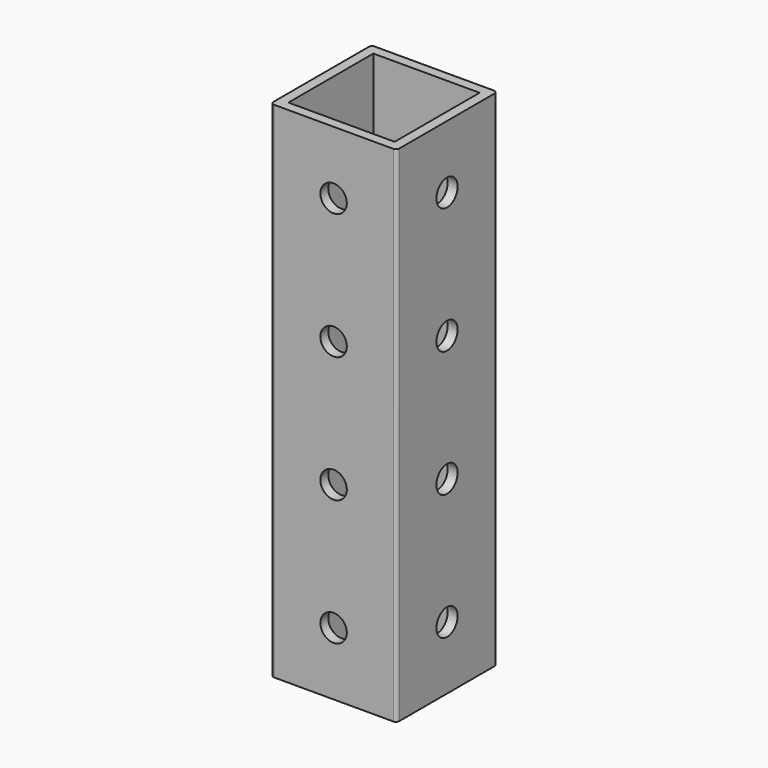
from build123d import *

# Parameters (mm, degrees)
BOX001_W               = 32.1
BOX001_H               = 32.1
BOX001_DEPTH           = 152.4
CYLINDER_R             = 4
CYLINDER_DEPTH         = 38.1
CYLINDER_PITCH_ANGLE   = 90
ARRAY001_Z_COUNT       = 4
ARRAY001_Z_PITCH       = 38.1
CYLINDER001_R          = 4
CYLINDER001_DEPTH      = 38.1
CYLINDER001_ROLL_ANGLE = 90
ARRAY_Z_COUNT          = 4
ARRAY_Z_PITCH          = 38.1
BOX_W                  = 38.1
BOX_H                  = 38.1
BOX_DEPTH              = 152.4
FILLET_R               = 1


with BuildPart() as cutout:
    # Box001 → Box001 (new body)
    with BuildSketch(Plane(origin=(3, 3, 0), x_dir=(1, 0, 0), z_dir=(0, 0, 1))):
        with Locations((16.05, 16.05)):
            Rectangle(BOX001_W, BOX001_H)
    extrude(amount=BOX001_DEPTH)


with BuildPart() as holes2:
    # Cylinder → Cylinder (new body)
    with BuildSketch(Plane.XY):
        Circle(CYLINDER_R)
    extrude(amount=CYLINDER_DEPTH)


with BuildPart() as holes2_1:
    # Cylinder pitch: moved
    add(holes2.part.rotate(Axis((0, 0, 0), (0, 1, 0)), CYLINDER_PITCH_ANGLE))


with BuildPart() as holes2_2:
    # Cylinder placement: moved
    add(holes2_1.part.moved(Location((0, 19.05, 19.05))))

    # Array001 Z: Holes2 ×4


with BuildPart() as holes2_3:
    add(holes2_2.part)
    with Locations(*[(0, 0, i * ARRAY001_Z_PITCH) for i in range(1, ARRAY001_Z_COUNT)]):
        add(holes2_2.part)


with BuildPart() as holes1:
    # Cylinder001 → Cylinder001 (new body)
    with BuildSketch(Plane.XY):
        Circle(CYLINDER001_R)
    extrude(amount=CYLINDER001_DEPTH)


with BuildPart() as holes1_1:
    # Cylinder001 roll: moved
    add(holes1.part.rotate(Axis((0, 0, 0), (1, 0, 0)), CYLINDER001_ROLL_ANGLE))


with BuildPart() as holes1_2:
    # Cylinder001 placement: moved
    add(holes1_1.part.moved(Location((19.05, 38.1, 19.05))))

    # Array Z: Holes1 ×4


with BuildPart() as holes1_3:
    add(holes1_2.part)
    with Locations(*[(0, 0, i * ARRAY_Z_PITCH) for i in range(1, ARRAY_Z_COUNT)]):
        add(holes1_2.part)


with BuildPart() as cut002:
    # Box → Box (new body)
    with BuildSketch(Plane.XY):
        with Locations((19.05, 19.05)):
            Rectangle(BOX_W, BOX_H)
    extrude(amount=BOX_DEPTH)

    # Fillet
    fillet_edges = [cut002.edges().sort_by_distance(p)[0] for p in [
        (0, 0, 76.2),
        (38.1, 0, 76.2),
        (38.1, 38.1, 76.2),
        (0, 38.1, 76.2),
    ]]
    fillet(fillet_edges, radius=FILLET_R)

    # Cut: cut Holes1
    add(holes1_3.part, mode=Mode.SUBTRACT)

    # Cut001: cut Holes2
    add(holes2_3.part, mode=Mode.SUBTRACT)

    # Cut002: cut Cutout
    add(cutout.part, mode=Mode.SUBTRACT)


solid = cut002.part
